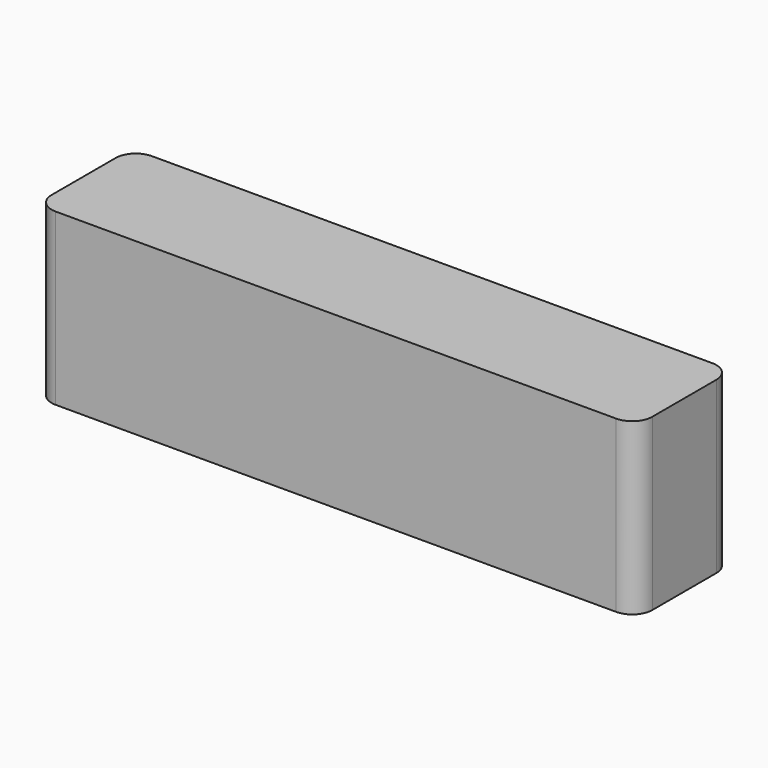
from build123d import *

# Parameters (mm, degrees)
SKETCH_W  = 60
SKETCH_H  = 12
PAD_DEPTH = 17
FILLET_R  = 2


with BuildPart() as part:
    # Sketch → Pad (new body)
    with BuildSketch(Plane.XY):
        Rectangle(SKETCH_W, SKETCH_H)
    extrude(amount=PAD_DEPTH)

    # Fillet
    fillet_edges = [part.edges().sort_by_distance(p)[0] for p in [
        (30, -6, 8.5),
        (-30, -6, 8.5),
        (30, 6, 8.5),
        (-30, 6, 8.5),
    ]]
    fillet(fillet_edges, radius=FILLET_R)


solid = part.part
